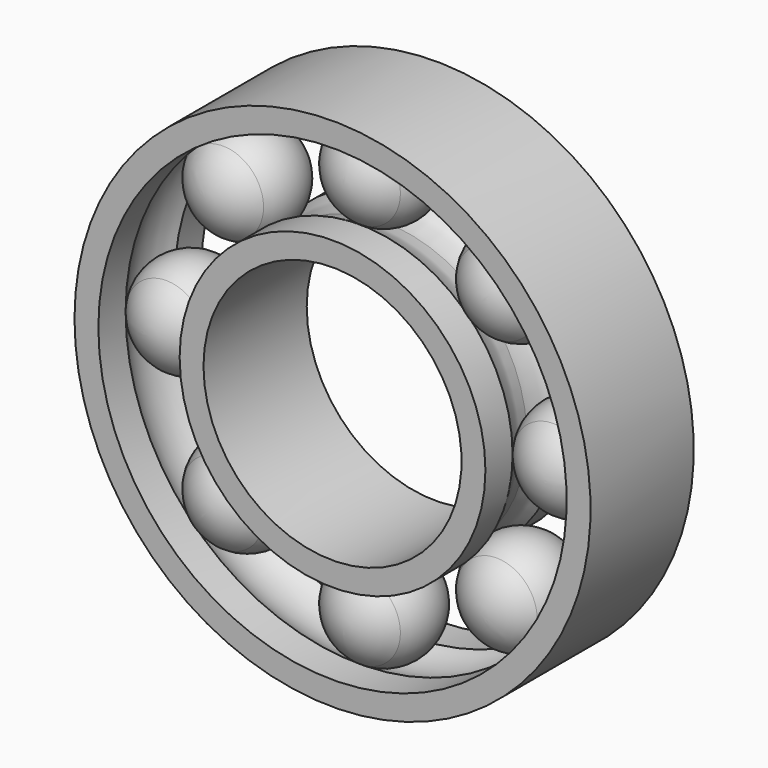
from build123d import *

# Parameters (mm, degrees)
F3_COUNT = 8


with BuildPart() as f1:
    # F0 (on Top) → F1 (revolve)
    with BuildSketch(Plane.XY):
        with BuildLine():
            Line((-3.175, 1.5875), (-3.7625, 1.5875))
            Line((-3.7625, 1.5875), (-3.7625, 0.75))
            ThreePointArc((-3.7625, 0.75), (-3.5766458774, 0.3952847075), (-3.5125, 0))
            ThreePointArc((-3.5125, 0), (-3.5766458774, -0.3952847075), (-3.7625, -0.75))
            Line((-3.7625, -0.75), (-3.7625, -1.5875))
            Line((-3.7625, -1.5875), (-3.175, -1.5875))
            Line((-3.175, -1.5875), (-3.175, 1.5875))
        make_face()
    revolve(axis=Axis((0, 0, 0), (0, -1, 0)))


with BuildPart() as f1b:
    # F0 (on Top) → F1, piece 2 (revolve)
    with BuildSketch(Plane.XY):
        with BuildLine():
            Line((-5.7625, 1.5875), (-6.35, 1.5875))
            Line((-6.35, 1.5875), (-6.35, -1.5875))
            Line((-6.35, -1.5875), (-5.7625, -1.5875))
            Line((-5.7625, -1.5875), (-5.7625, -0.75))
            ThreePointArc((-5.7625, -0.75), (-6.0125, 0), (-5.7625, 0.75))
            Line((-5.7625, 0.75), (-5.7625, 1.5875))
        make_face()
    revolve(axis=Axis((0, 0, 0), (0, -1, 0)))


with BuildPart() as f2:
    # F0 (on Top) → F2 (revolve)
    with BuildSketch(Plane.XY):
        with BuildLine():
            Line((-5.7625, -0.75), (-5.7625, 0.75))
            ThreePointArc((-5.7625, 0.75), (-6.0125, 0), (-5.7625, -0.75))
        make_face()
        with BuildLine():
            ThreePointArc((-4.7625, 1.25), (-5.3215169944, 1.1180339887), (-5.7625, 0.75))
            Line((-5.7625, 0.75), (-5.7625, -0.75))
            ThreePointArc((-5.7625, -0.75), (-5.3215169944, -1.1180339887), (-4.7625, -1.25))
            Line((-4.7625, -1.25), (-4.7625, 1.25))
        make_face()
    revolve(axis=Axis((-4.7625, 0, 0), (0, -1, 0)))


with BuildPart() as f3_1:
    # F3: instance of F2
    add(f2.part.rotate(Axis((0, 0, 0), (0, -1, 0)), 1 * 360 / F3_COUNT))


with BuildPart() as f3_2:
    # F3: instance of F2
    add(f2.part.rotate(Axis((0, 0, 0), (0, -1, 0)), 2 * 360 / F3_COUNT))


with BuildPart() as f3_3:
    # F3: instance of F2
    add(f2.part.rotate(Axis((0, 0, 0), (0, -1, 0)), 3 * 360 / F3_COUNT))


with BuildPart() as f3_4:
    # F3: instance of F2
    add(f2.part.rotate(Axis((0, 0, 0), (0, -1, 0)), 4 * 360 / F3_COUNT))


with BuildPart() as f3_5:
    # F3: instance of F2
    add(f2.part.rotate(Axis((0, 0, 0), (0, -1, 0)), 5 * 360 / F3_COUNT))


with BuildPart() as f3_6:
    # F3: instance of F2
    add(f2.part.rotate(Axis((0, 0, 0), (0, -1, 0)), 6 * 360 / F3_COUNT))


with BuildPart() as f3_7:
    # F3: instance of F2
    add(f2.part.rotate(Axis((0, 0, 0), (0, -1, 0)), 7 * 360 / F3_COUNT))


solid = Compound([f1.part, f1b.part, f2.part, f3_1.part, f3_2.part, f3_3.part, f3_4.part, f3_5.part, f3_6.part, f3_7.part])
